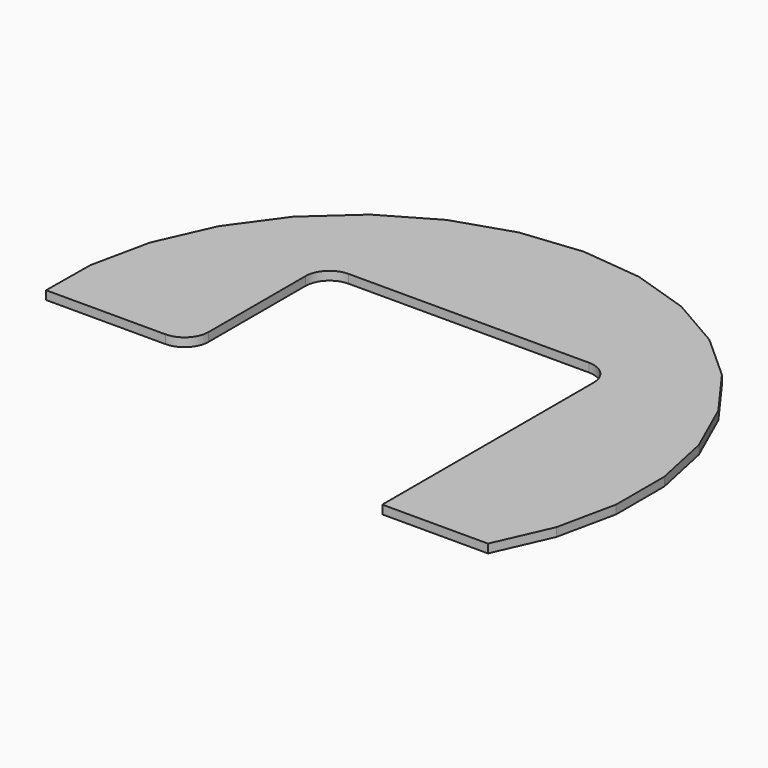
from build123d import *

# Parameters (mm, degrees)
F1_DEPTH = 18


with BuildPart() as f1:
    # F0 (on Top) → F1 (new body)
    with BuildSketch(Plane.XY):
        Polygon((-250, 544.84634), (-250, 300), (250, 300), (250, 544.693065), (243.621198, 548.369817), (124.23241, 587.055308), (-0.591805, 600.061665), (-125.391299, 586.820201), (-244.707157, 547.910357), align=None)
        with BuildLine():
            ThreePointArc((-300, 250), (-285.355339, 285.355339), (-250, 300))
            Line((-250, 300), (-250, 544.84634))
            Line((-250, 544.84634), (-353.320472, 485.034306))
            Line((-353.320472, 485.034306), (-446.480602, 400.942449))
            Line((-446.480602, 400.942449), (-520.112932, 299.313074))
            Line((-520.112932, 299.313074), (-542.068528, 250))
            Line((-542.068528, 250), (-300, 250))
        make_face()
        with BuildLine():
            Line((250, 544.693065), (250, 300))
            ThreePointArc((250, 300), (285.355339, 285.355339), (300, 250))
            Line((300, 250), (541.901727, 250))
            Line((541.901727, 250), (519.488048, 300.285362))
            Line((519.488048, 300.285362), (445.668405, 401.778762))
            Line((445.668405, 401.778762), (352.35202, 485.697188))
            Line((352.35202, 485.697188), (250, 544.693065))
        make_face()
        with BuildLine():
            Line((-300, -2.090053), (-300, 250))
            Line((-300, 250), (-542.068528, 250))
            Line((-542.068528, 250), (-571.158381, 184.663119))
            Line((-571.158381, 184.663119), (-597.247912, 61.904876))
            Line((-597.247912, 61.904876), (-598.323203, -52.090053))
            Line((-598.323203, -52.090053), (-350, -52.090053))
            ThreePointArc((-350, -52.090053), (-314.644661, -37.445392), (-300, -2.090053))
        make_face()
        Polygon((541.901727, 250), (300, 250), (300, -300), (520, -300), (570.660691, -185.350045), (596.753608, -62.592521), (596.713076, 62.907472), (570.581421, 185.656756), align=None)
    extrude(amount=F1_DEPTH)


solid = f1.part
